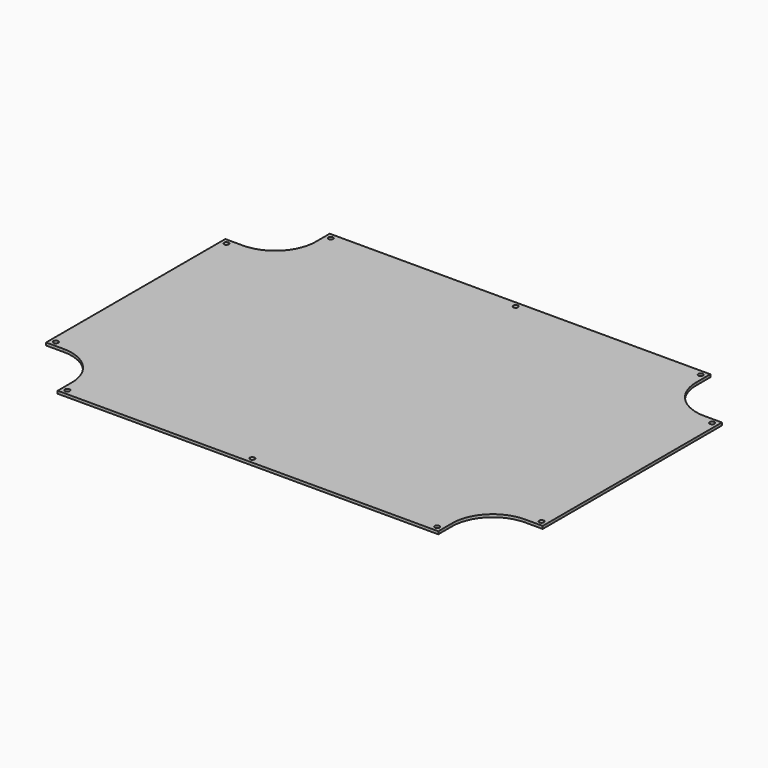
from build123d import *

# Parameters (mm, degrees)
F0_R     = 1.75
F1_DEPTH = 2


with BuildPart() as f1:
    # F0 (on Top) → F1 (new body)
    with BuildSketch(Plane.XY):
        with BuildLine():
            Line((141, 126), (-141, 126))
            Line((-141, 126), (-141, 113))
            ThreePointArc((-141, 113), (-149.786797, 91.786797), (-171, 83))
            Line((-171, 83), (-184, 83))
            Line((-184, 83), (-184, -83))
            Line((-184, -83), (-171, -83))
            ThreePointArc((-171, -83), (-149.786797, -91.786797), (-141, -113))
            Line((-141, -113), (-141, -126))
            Line((-141, -126), (141, -126))
            Line((141, -126), (141, -113))
            ThreePointArc((141, -113), (149.786797, -91.786797), (171, -83))
            Line((171, -83), (184, -83))
            Line((184, -83), (184, 83))
            Line((184, 83), (171, 83))
            ThreePointArc((171, 83), (149.786797, 91.786797), (141, 113))
            Line((141, 113), (141, 126))
        make_face()
        with Locations((-137, -122)):
            Circle(F0_R, mode=Mode.SUBTRACT)
        with Locations((-180, -79)):
            Circle(F0_R, mode=Mode.SUBTRACT)
        with Locations((0, -122)):
            Circle(F0_R, mode=Mode.SUBTRACT)
        with Locations((137, -122)):
            Circle(F0_R, mode=Mode.SUBTRACT)
        with Locations((180, -79)):
            Circle(F0_R, mode=Mode.SUBTRACT)
        with Locations((-180, 79)):
            Circle(F0_R, mode=Mode.SUBTRACT)
        with Locations((-137, 122)):
            Circle(F0_R, mode=Mode.SUBTRACT)
        with Locations((0, 122)):
            Circle(F0_R, mode=Mode.SUBTRACT)
        with Locations((180, 79)):
            Circle(F0_R, mode=Mode.SUBTRACT)
        with Locations((137, 122)):
            Circle(F0_R, mode=Mode.SUBTRACT)
    extrude(amount=F1_DEPTH)


solid = f1.part
